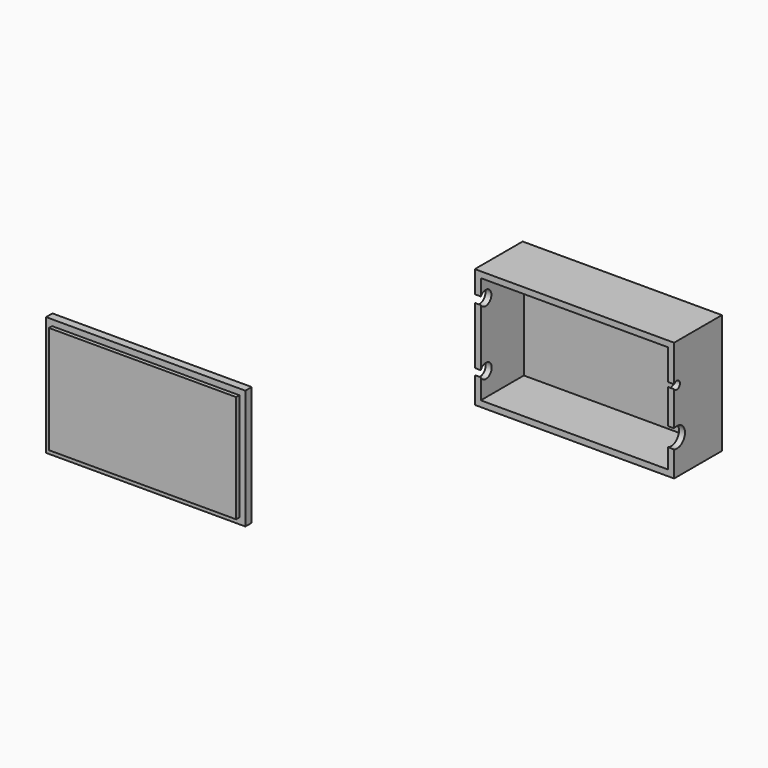
from build123d import *

# Parameters (mm, degrees)
F0_W     = 50
F0_H     = 30
F1_DEPTH = 15
F2_T     = -1.5
F3_DEPTH = 2
F4_T     = -1.5
F5_DEPTH = 1.5
F7_DEPTH = 5
F9_DEPTH = 5


with BuildPart() as f1:
    # F0 (on Front) → F1 (new body)
    with BuildSketch(Plane.XZ):
        with Locations((-80.2725559641, 6.2470277771)):
            Rectangle(F0_W, F0_H)
    extrude(amount=F1_DEPTH)

    # F2
    f2_openings = [f1.faces().sort_by_distance(p)[0] for p in [
        (-80.272556, -15, 6.247028),
    ]]
    offset(amount=F2_T, openings=f2_openings)

    # F6 (on face) → F7 (cut)
    with BuildSketch(Plane(origin=(-105.2725559641, 0, 0), x_dir=(0, -1, 0), z_dir=(-1, 0, 0))):
        with BuildLine():
            Line((15, -2.1687817886), (15, -0.5999612961))
            ThreePointArc((15, -0.5999612961), (11.5799072355, -1.3843715424), (15, -2.1687817886))
        make_face()
        with BuildLine():
            Line((15, 13.7823199704), (15, 15.6869260744))
            ThreePointArc((15, 15.6869260744), (11.6725449607, 14.7346230224), (15, 13.7823199704))
        make_face()
    extrude(amount=-F7_DEPTH, mode=Mode.SUBTRACT)

    # F8 (on face) → F9 (cut)
    with BuildSketch(Plane.YZ.offset(-55.2725559641)):
        with BuildLine():
            Line((-15, 2.3284412038), (-15, -2.3284412038))
            ThreePointArc((-15, -2.3284412038), (-11.5898562968, 0), (-15, 2.3284412038))
        make_face()
        with BuildLine():
            Line((-15, 12.065316385), (-15, 10.9761349648))
            ThreePointArc((-15, 10.9761349648), (-13.1612980515, 11.5207256749), (-15, 12.065316385))
        make_face()
    extrude(amount=-F9_DEPTH, mode=Mode.SUBTRACT)


with BuildPart() as f3:
    # F0 (on Front) → F3 (new body)
    with BuildSketch(Plane.XZ):
        with Locations((-198.2397586107, -47.9986146092)):
            Rectangle(F0_W, F0_H)
    extrude(amount=F3_DEPTH)

    # F4
    f4_openings = [f3.faces().sort_by_distance(p)[0] for p in [
        (-198.239759, -2, -47.998615),
    ]]
    offset(amount=F4_T, openings=f4_openings)

    # F5 (add): a face of the model
    f5_faces = [f3.faces().sort_by_distance(p)[0] for p in [
        (-198.2397586107, -1.5, -47.9986146092),
    ]]
    extrude(f5_faces, amount=F5_DEPTH)


solid = Compound([f1.part, f3.part])
